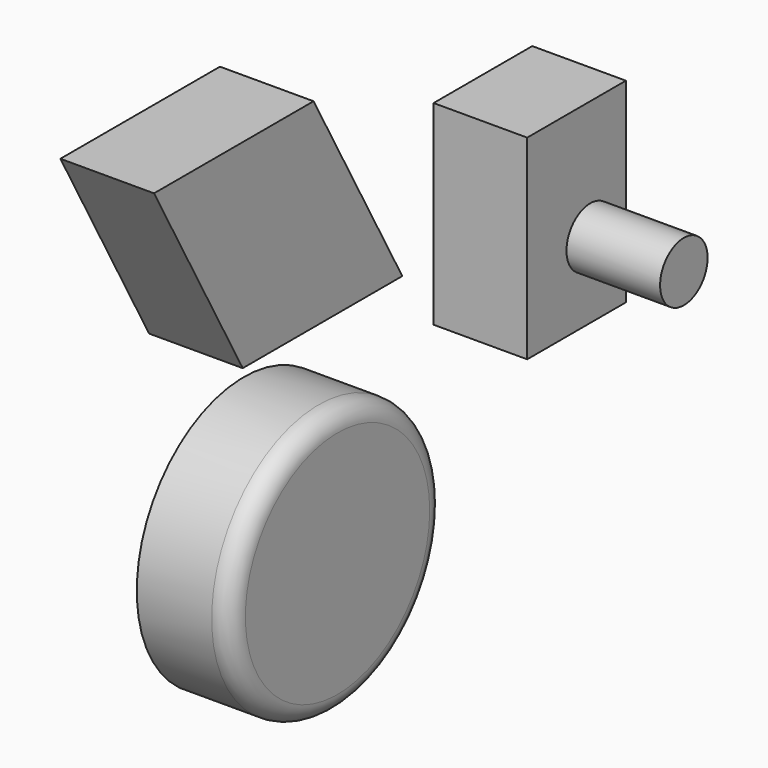
from build123d import *

# Parameters (mm, degrees)
F0_R     = 35.765279
F0_W     = 32.934487
F0_H     = 52.124173
F1_DEPTH = 25
F2_R     = 5
F3_R     = 7.928907
F4_DEPTH = 25


with BuildPart() as f1:
    # F0 (on Right) → F1 (new body)
    with BuildSketch(Plane.YZ):
        Polygon((-4.511893, 65.581568), (-57.764888, 65.581568), (-28.150409, 12.434766), (25.102586, 12.434766), align=None)
        with Locations((3.489411, -46.376237)):
            Circle(F0_R)
        with Locations((83.269178, 1.977607)):
            Rectangle(F0_W, F0_H)
    extrude(amount=F1_DEPTH)

    # F2
    f2_edges = [f1.edges().sort_by_distance(p)[0] for p in [
        (25, -32.275868, -46.376237),
    ]]
    fillet(f2_edges, radius=F2_R)

    # F3 (on face) → F4 (join)
    with BuildSketch(Plane.YZ.offset(25)):
        with Locations((87.838791, -3.870482)):
            Circle(F3_R)
    extrude(amount=F4_DEPTH)


solid = f1.part
